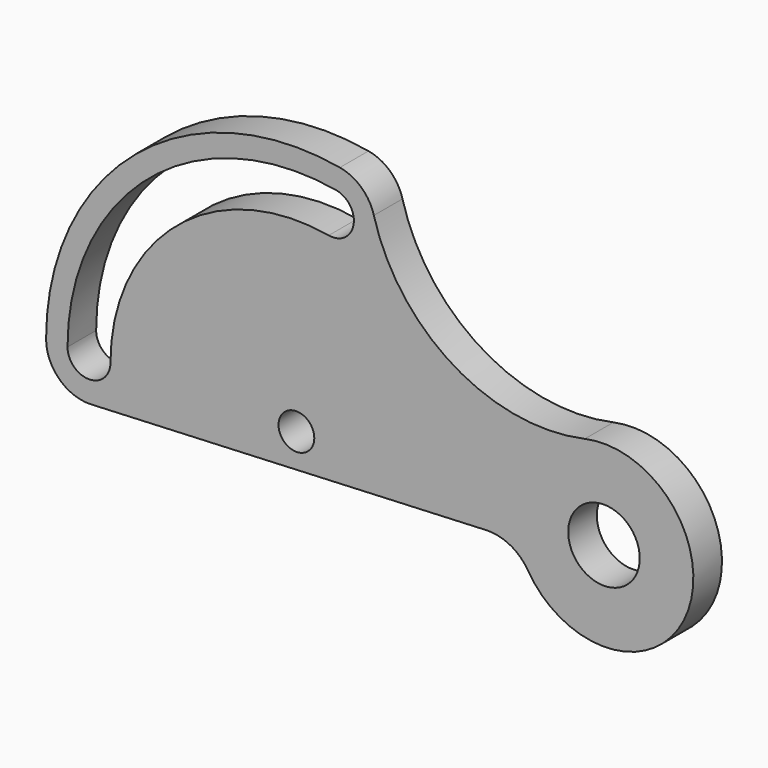
from build123d import *

# Parameters (mm, degrees)
F0_R     = 5
F0_R_2   = 10
F1_DEPTH = 10


with BuildPart() as f1:
    # F0 (on Front) → F1 (new body)
    with BuildSketch(Plane.XZ):
        with BuildLine():
            ThreePointArc((21.657847, 60.242749), (18.171776, 65.972496), (12.155372, 68.936543))
            ThreePointArc((12.155372, 68.936543), (-44.995133, 53.623111), (-70, 0))
            ThreePointArc((-70, 0), (-66.29239, -8.673884), (-57.460622, -11.987872))
            Line((-57.460622, -11.987872), (53.104685, -7.013139))
            ThreePointArc((53.104685, -7.013139), (59.758753, -8.503991), (64.74277, -13.157895))
            ThreePointArc((64.74277, -13.157895), (109.023376, -9.742904), (80.644633, 24.419665))
            ThreePointArc((80.644633, 24.419665), (43.979871, 30.522731), (21.657847, 60.242749))
        make_face()
        Circle(F0_R, mode=Mode.SUBTRACT)
        with Locations((86, 0)):
            Circle(F0_R_2, mode=Mode.SUBTRACT)
        with BuildLine():
            ThreePointArc((-64, 0), (-41.138407, 49.026844), (11.113483, 63.027696))
            ThreePointArc((11.113483, 63.027696), (15.980441, 56.076961), (9.029705, 51.210003))
            ThreePointArc((9.029705, 51.210003), (-33.424956, 39.834311), (-52, 0))
            ThreePointArc((-52, 0), (-58, -6), (-64, 0))
        make_face(mode=Mode.SUBTRACT)
    extrude(amount=F1_DEPTH)


solid = f1.part
